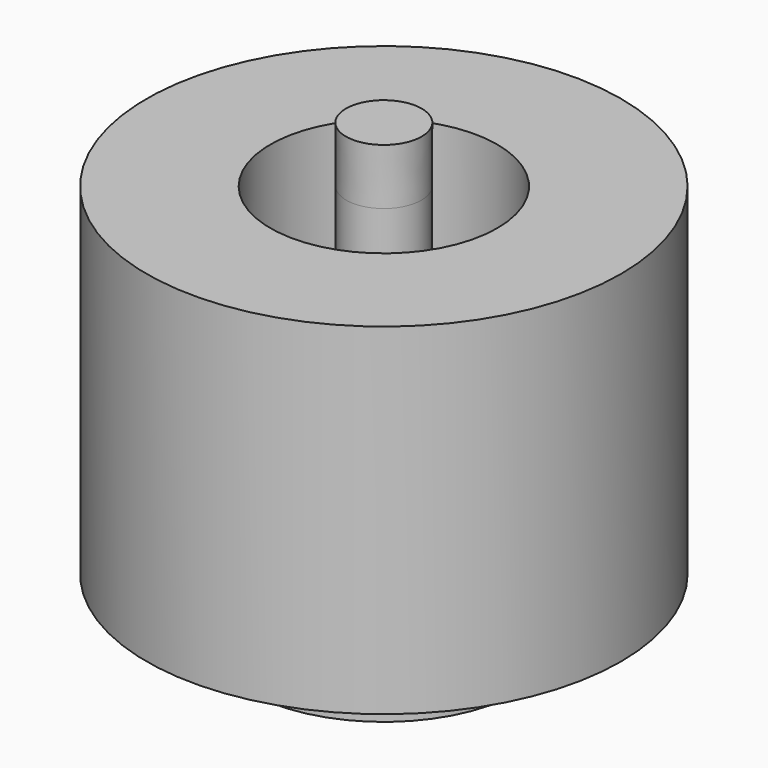
from build123d import *


with BuildPart() as f1:
    # F0 (on Front) → F1 (revolve)
    with BuildSketch(Plane.XZ):
        Polygon((3.718241, -8.763036), (3.718241, -12.013727), (7.208238, -12.013727), (7.208238, -8.886344), (12.522305, -8.886344), (12.522305, 9.126479), (5.986845, 9.126479), (5.986845, -8.763036), align=None)
    revolve(axis=Axis((0, 0, 0.038139), (0, 0, -1)))


with BuildPart() as f2:
    # F0 (on Front) → F2 (revolve)
    with BuildSketch(Plane.XZ):
        Polygon((2, 12.090005), (0, 12.090005), (0, -12.013727), (2.764514, -12.013727), (2.764514, -9.711034), (1.986845, -9.711034), (1.986845, 9.126479), align=None)
    revolve(axis=Axis((0, 0, 0.038139), (0, 0, -1)))


solid = Compound([f1.part, f2.part])
